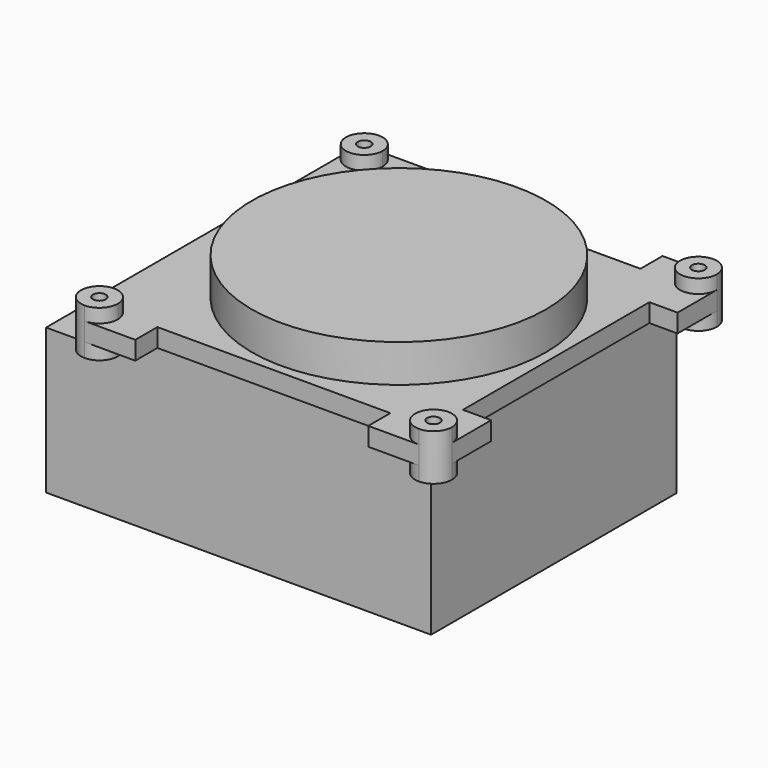
from build123d import *

# Parameters (mm, degrees)
F0_R      = 24
F1_DEPTH  = 6.15
F0_R_2    = 1.05
F2_DEPTH  = 2.25
F3_DEPTH  = 5.3
F4_DEPTH  = 3
F6_W      = 55.5
F6_H      = 50
F7_DEPTH  = 30
F9_W      = 50
F9_H      = 23.7
F10_DEPTH = 7.3


with BuildPart() as f1:
    # F0 (on Top) → F1 (new body)
    with BuildSketch(Plane.XY):
        Circle(F0_R)
    extrude(amount=F1_DEPTH)


with BuildPart() as f2:
    # F0 (on Top) → F2 (new body)
    with BuildSketch(Plane.XY):
        with BuildLine():
            ThreePointArc((27.25, -30), (29.37132, -29.12132), (30.25, -27))
            ThreePointArc((30.25, -27), (25.12868, -24.87868), (27.25, -30))
        make_face()
        with Locations((27.25, -27)):
            Circle(F0_R_2, mode=Mode.SUBTRACT)
        with BuildLine():
            ThreePointArc((30.25, 27), (29.37132, 29.12132), (27.25, 30))
            ThreePointArc((27.25, 30), (25.12868, 24.87868), (30.25, 27))
        make_face()
        with Locations((27.25, 27)):
            Circle(F0_R_2, mode=Mode.SUBTRACT)
        with BuildLine():
            ThreePointArc((-24.25, 27), (-25.12868, 29.12132), (-27.25, 30))
            ThreePointArc((-27.25, 30), (-29.37132, 29.12132), (-30.25, 27))
            ThreePointArc((-30.25, 27), (-27.25, 24), (-24.25, 27))
        make_face()
        with Locations((-27.25, 27)):
            Circle(F0_R_2, mode=Mode.SUBTRACT)
        with BuildLine():
            ThreePointArc((-24.25, -27), (-27.25, -24), (-30.25, -27))
            ThreePointArc((-30.25, -27), (-29.37132, -29.12132), (-27.25, -30))
            ThreePointArc((-27.25, -30), (-25.12868, -29.12132), (-24.25, -27))
        make_face()
        with Locations((-27.25, -27)):
            Circle(F0_R_2, mode=Mode.SUBTRACT)
    extrude(amount=F2_DEPTH)


with BuildPart() as f3:
    # F0 (on Top) → F3 (new body)
    with BuildSketch(Plane.XY):
        with BuildLine():
            ThreePointArc((-24.25, -27), (-27.25, -24), (-30.25, -27))
            ThreePointArc((-30.25, -27), (-29.37132, -29.12132), (-27.25, -30))
            ThreePointArc((-27.25, -30), (-25.12868, -29.12132), (-24.25, -27))
        make_face()
        with Locations((-27.25, -27)):
            Circle(F0_R_2, mode=Mode.SUBTRACT)
        with BuildLine():
            ThreePointArc((-24.25, 27), (-25.12868, 29.12132), (-27.25, 30))
            ThreePointArc((-27.25, 30), (-29.37132, 29.12132), (-30.25, 27))
            ThreePointArc((-30.25, 27), (-27.25, 24), (-24.25, 27))
        make_face()
        with Locations((-27.25, 27)):
            Circle(F0_R_2, mode=Mode.SUBTRACT)
        with BuildLine():
            ThreePointArc((27.25, -30), (29.37132, -29.12132), (30.25, -27))
            ThreePointArc((30.25, -27), (25.12868, -24.87868), (27.25, -30))
        make_face()
        with Locations((27.25, -27)):
            Circle(F0_R_2, mode=Mode.SUBTRACT)
        with BuildLine():
            ThreePointArc((30.25, 27), (29.37132, 29.12132), (27.25, 30))
            ThreePointArc((27.25, 30), (25.12868, 24.87868), (30.25, 27))
        make_face()
        with Locations((27.25, 27)):
            Circle(F0_R_2, mode=Mode.SUBTRACT)
    extrude(amount=-F3_DEPTH)


with BuildPart() as f4:
    # F0 (on Top) → F4 (new body)
    with BuildSketch(Plane.XY):
        with BuildLine():
            ThreePointArc((30.25, 27), (25.12868, 24.87868), (27.25, 30))
            Line((27.25, 30), (19, 30))
            Line((19, 30), (19, 25.5))
            Line((19, 25.5), (-19, 25.5))
            Line((-19, 25.5), (-19, 30))
            Line((-19, 30), (-27.25, 30))
            ThreePointArc((-27.25, 30), (-25.12868, 29.12132), (-24.25, 27))
            ThreePointArc((-24.25, 27), (-27.25, 24), (-30.25, 27))
            Line((-30.25, 27), (-30.25, -27))
            ThreePointArc((-30.25, -27), (-27.25, -24), (-24.25, -27))
            ThreePointArc((-24.25, -27), (-25.12868, -29.12132), (-27.25, -30))
            Line((-27.25, -30), (-19, -30))
            Line((-19, -30), (-19, -25.5))
            Line((-19, -25.5), (19, -25.5))
            Line((19, -25.5), (19, -30))
            Line((19, -30), (27.25, -30))
            ThreePointArc((27.25, -30), (25.12868, -24.87868), (30.25, -27))
            Line((30.25, -27), (30.25, -19))
            Line((30.25, -19), (25.65, -19))
            Line((25.65, -19), (25.65, 19))
            Line((25.65, 19), (30.25, 19))
            Line((30.25, 19), (30.25, 27))
        make_face()
        Circle(F0_R, mode=Mode.SUBTRACT)
    extrude(amount=-F4_DEPTH)

    # F5: union F3, F2, F1
    add(f3.part)
    add(f2.part)
    add(f1.part)


with BuildPart() as f7:
    # F6 (on face) → F7 (new body)
    with BuildSketch(Plane.XY):
        with Locations((-2.5, 0)):
            Rectangle(F6_W, F6_H)
    extrude(amount=-F7_DEPTH)


with BuildPart() as f4_1:
    add(f4.part)

    # F8: union F7
    add(f7.part)

    # F9 (on face) → F10 (join)
    with BuildSketch(Plane(origin=(-30.25, 0, 0), x_dir=(0, -1, 0), z_dir=(-1, 0, 0))):
        with Locations((0, -18.15)):
            Rectangle(F9_W, F9_H)
    extrude(amount=F10_DEPTH)


solid = f4_1.part
